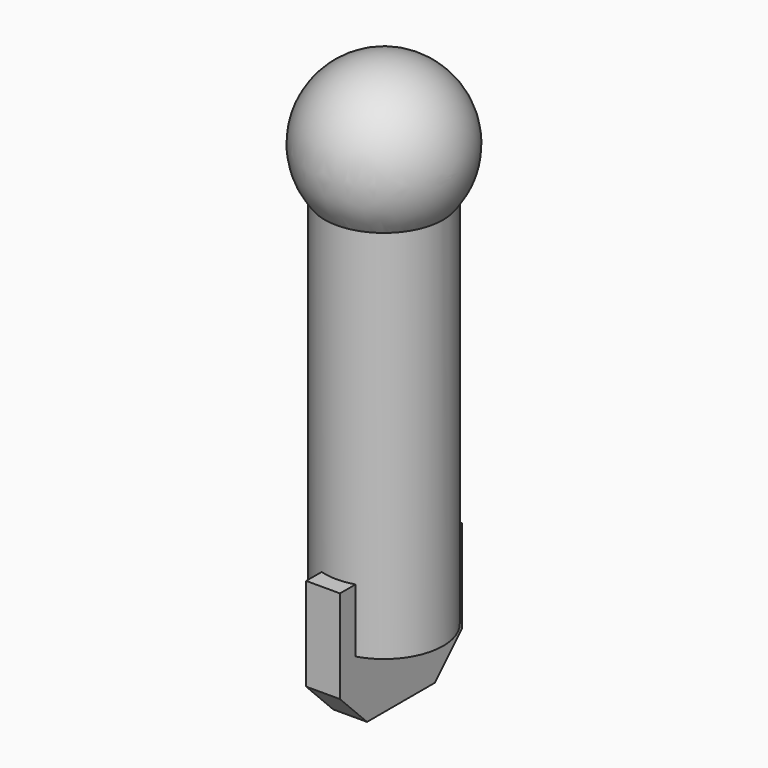
from build123d import *

# Parameters (mm, degrees)
F0_R     = 3.5
F1_DEPTH = 12.5
F2_W     = 2
F2_H     = 9
F3_DEPTH = 3.75
F7_SIZE  = 2


with BuildPart() as f1:
    # F0 (on Top) → F1 (new body, symmetric)
    with BuildSketch(Plane.XY):
        Circle(F0_R)
    extrude(amount=F1_DEPTH, both=True)

    # F2 (on face) → F3 (join, symmetric)
    with BuildSketch(Plane(origin=(0, 0, -12.5), x_dir=(1, 0, 0), z_dir=(0, 0, -1))):
        Rectangle(F2_W, F2_H)
    extrude(amount=F3_DEPTH, both=True)

    # F5 (on face) → F6 (revolve)
    with BuildSketch(Plane.XY.offset(12.5)):
        with BuildLine():
            Line((4.5, 0), (-4.5, 0))
            ThreePointArc((-4.5, 0), (0, -4.5), (4.5, 0))
        make_face()
    revolve(axis=Axis((-0.09783, 0, 12.5), (1, 0, 0)))

    # F7
    f7_edges = [f1.edges().sort_by_distance(p)[0] for p in [
        (0, -4.5, -16.25),
        (0, 4.5, -16.25),
    ]]
    chamfer(f7_edges, length=F7_SIZE)


solid = f1.part
